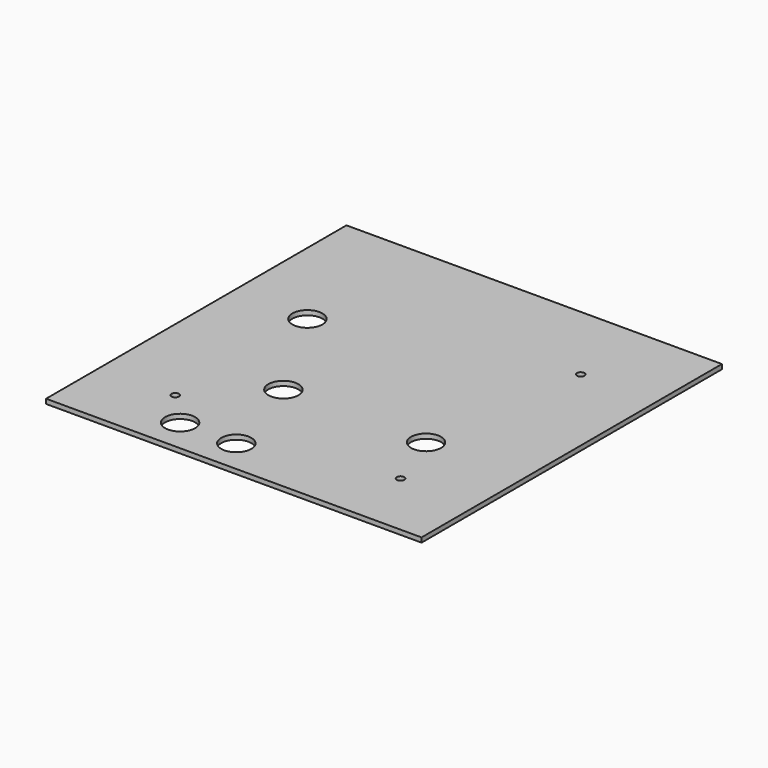
from build123d import *

# Parameters (mm, degrees)
F1_W     = 126.999949
F1_H     = 127.00005
F2_DEPTH = 1.5748
F3_R     = 5.08
F3_R_2   = 1.27
F4_DEPTH = 1.5758


with BuildPart() as f2:
    # F1 (on Top) → F2 (new body)
    with BuildSketch(Plane.XY):
        with Locations((0.139878, 0)):
            Rectangle(F1_W, F1_H)
    extrude(amount=F2_DEPTH)

    # F3 (on face) → F4 (cut, through all)
    with BuildSketch(Plane.XY.offset(1.5748)):
        with Locations((-27.16591, -52.070584)):
            Circle(F3_R)
        with Locations((-8.166964, -52.070584)):
            Circle(F3_R)
        with Locations((-37.960148, -40.639746)):
            Circle(F3_R_2)
        with Locations((38.239852, -40.639746)):
            Circle(F3_R_2)
        with Locations((38.239852, 35.560279)):
            Circle(F3_R_2)
        with Locations((-17.64091, -20.320737)):
            Circle(F3_R)
        with Locations((30.61909, -20.320737)):
            Circle(F3_R)
        with Locations((-37.960148, 15.239517)):
            Circle(F3_R)
    extrude(amount=-F4_DEPTH, mode=Mode.SUBTRACT)


solid = f2.part
